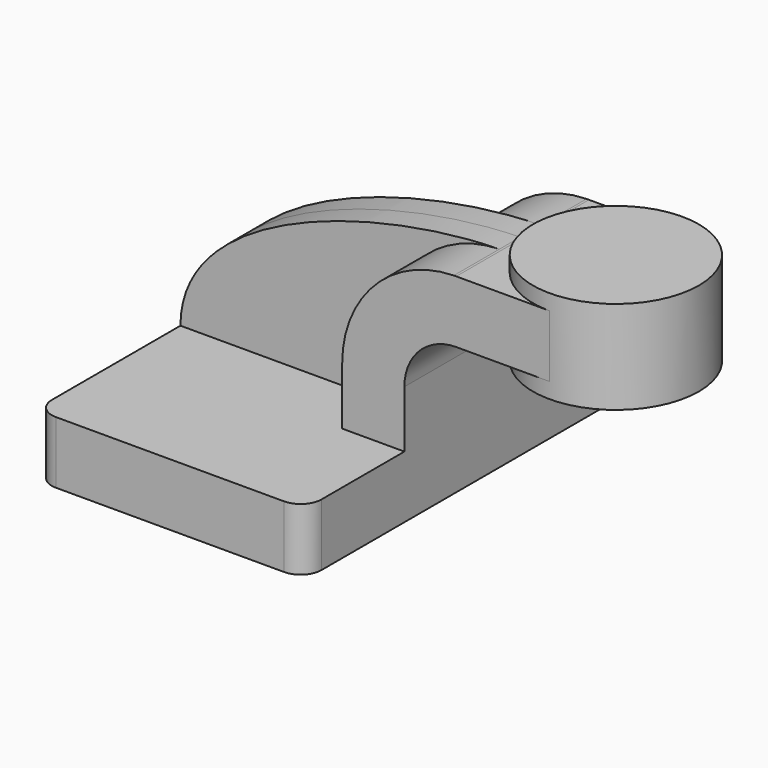
from build123d import *

# Parameters (mm, degrees)
F1_DEPTH = 63.5
F0_W     = 25.4
F0_H     = 19.05
F2_DEPTH = 25.4
F3_DEPTH = 7.9375
F5_R     = 6.35


with BuildPart() as f1:
    # F0 (on Front) → F1 (new body, symmetric)
    with BuildSketch(Plane.XZ):
        Polygon((22.225, 9.525), (-41.275, 9.525), (-41.275, -9.525), (41.275, -9.525), (41.275, 9.525), align=None)
    extrude(amount=F1_DEPTH, both=True)

    # F0 (on Front) → F2 (join, symmetric)
    with BuildSketch(Plane.XZ):
        with Locations((73.025, 52.4002)):
            Rectangle(F0_W, F0_H)
        with BuildLine():
            Line((22.225, 27.0002), (22.225, 9.525))
            Line((22.225, 9.525), (41.275, 9.525))
            Line((41.275, 9.525), (41.275, 27.0002))
            ThreePointArc((41.275, 27.0002), (45.92468, 38.22552), (57.15, 42.8752))
            Line((57.15, 42.8752), (60.325, 42.8752))
            Line((60.325, 42.8752), (60.325, 61.9252))
            Line((60.325, 61.9252), (57.15, 61.9252))
            add(Edge.make_bspline(
                [(56.412668, 61.917416), (56.659607, 61.920784), (56.905393, 61.923379), (57.15, 61.9252)],
                knots=[110.751719, 110.751719, 110.751719, 110.751719, 111.504536, 111.504536, 111.504536, 111.504536], degree=3))
            ThreePointArc((56.412668, 61.917416), (32.194971, 51.433827), (22.225, 27.0002))
        make_face()
        with Locations((73.025, 52.4002)):
            Rectangle(F0_W, F0_H)
    extrude(amount=F2_DEPTH, both=True)

    # F0 (on Front) → F3 (join, symmetric)
    with BuildSketch(Plane.XZ):
        with BuildLine():
            add(Edge.make_bspline(
                [(-41.275, 9.525), (-41.186913, 44.177352), (20.083951, 61.421855), (56.412668, 61.917416)],
                knots=[0, 0, 0, 0, 110.751719, 110.751719, 110.751719, 110.751719], degree=3))
            Line((-41.275, 9.525), (22.225, 9.525))
            Line((22.225, 9.525), (22.225, 27.0002))
            ThreePointArc((22.225, 27.0002), (32.194971, 51.433827), (56.412668, 61.917416))
        make_face()
    extrude(amount=F3_DEPTH, both=True)

    # F5
    f5_edges = [f1.edges().sort_by_distance(p)[0] for p in [
        (-41.275, -63.5, 0),
        (41.275, -63.5, 0),
        (-41.275, 63.5, 0),
        (41.275, 63.5, 0),
    ]]
    fillet(f5_edges, radius=F5_R)


with BuildPart() as f4:
    # F0 (on Front) → F4 (revolve)
    with BuildSketch(Plane.XZ):
        Polygon((85.725, 66.675), (85.725, 61.9252), (85.725, 42.8752), (85.725, 38.1), (111.125, 38.1), (111.125, 66.675), align=None)
    revolve(axis=Axis((85.725, 0, 52.3875), (0, 0, -1)))


solid = Compound([f1.part, f4.part])
